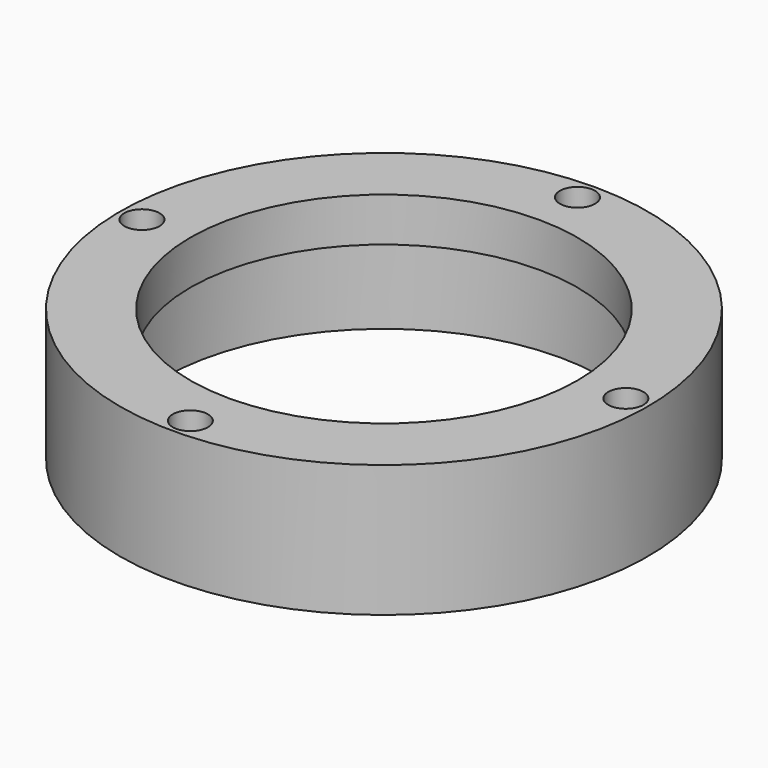
from build123d import *

# Parameters (mm, degrees)
F2_R     = 2.54
F3_DEPTH = 25.4


with BuildPart() as f1:
    # F0 (on Right) → F1 (revolve)
    with BuildSketch(Plane.YZ):
        Polygon((31.75, 12.7), (31.75, 0), (38.1, 0), (38.1, 19.05), (27.94, 19.05), (27.94, 12.7), align=None)
    revolve(axis=Axis((0, 0, 13.59911), (0, 0, 1)))

    # F2 (on face) → F3 (cut)
    with BuildSketch(Plane.XY.offset(19.05)):
        with Locations((-34.925, 0)):
            Circle(F2_R)
        with Locations((0, 34.925)):
            Circle(F2_R)
        with Locations((34.925, 0)):
            Circle(F2_R)
        with Locations((0, -34.925)):
            Circle(F2_R)
    extrude(amount=-F3_DEPTH, mode=Mode.SUBTRACT)


solid = f1.part
